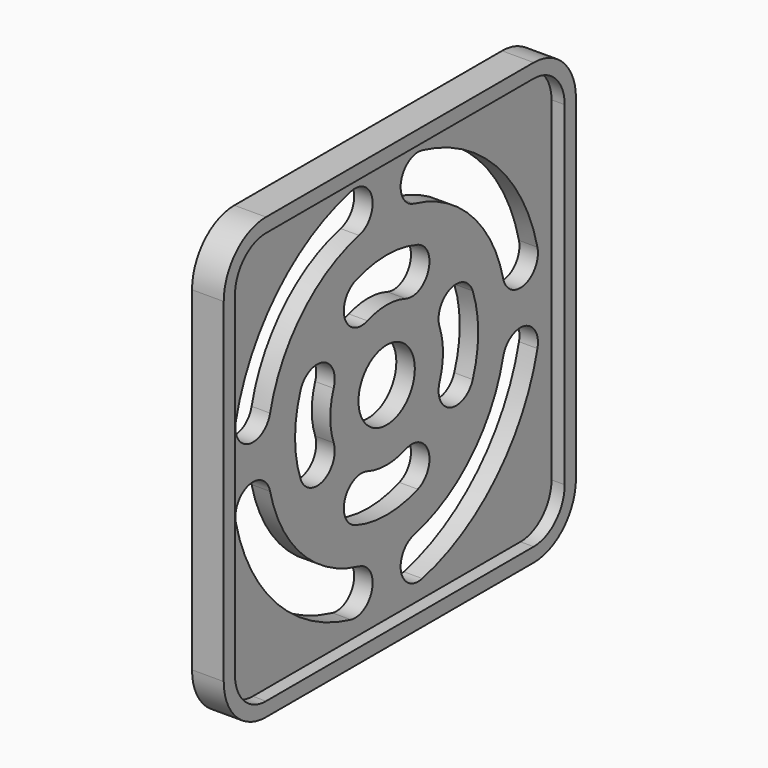
from build123d import *

# Parameters (mm, degrees)
SKETCH028_R           = 2
PAD011_DEPTH          = 1.05
POCKET023_DEPTH       = 71.792855
POLARPATTERN_COUNT    = 4
POCKET024_DEPTH       = 71.792855
POLARPATTERN001_COUNT = 4
PAD012_DEPTH          = 0.75


with BuildPart() as part:
    # Sketch028 → Pad011 (new body)
    with BuildSketch(Plane.YZ):
        with BuildLine():
            Line((-12.5, 9.5), (-12.5, -9.5))
            ThreePointArc((-12.5, -9.5), (-11.62132, -11.62132), (-9.5, -12.5))
            Line((-9.5, -12.5), (9.5, -12.5))
            ThreePointArc((9.5, -12.5), (11.62132, -11.62132), (12.5, -9.5))
            Line((12.5, -9.5), (12.5, 9.5))
            ThreePointArc((12.5, 9.5), (11.62132, 11.62132), (9.5, 12.5))
            Line((9.5, 12.5), (-9.5, 12.5))
            ThreePointArc((-9.5, 12.5), (-11.62132, 11.62132), (-12.5, 9.5))
        make_face()
        Circle(SKETCH028_R, mode=Mode.SUBTRACT)
    extrude(amount=PAD011_DEPTH)

    # Sketch029 (on Face11 of Pad011) → Pocket023 (cut, through all)
    with BuildSketch(Plane.YZ.offset(1.05)):
        with BuildLine():
            ThreePointArc((1.362563, 3.760774), (0, 4), (-1.362563, 3.760774))
            ThreePointArc((-2.214165, 6.111258), (-2.963606, 4.510215), (-1.362563, 3.760774))
            ThreePointArc((2.214165, 6.111258), (0, 6.5), (-2.214165, 6.111258))
            ThreePointArc((1.362563, 3.760774), (2.963606, 4.510215), (2.214165, 6.111258))
        make_face()
    pocket023 = extrude(amount=-POCKET023_DEPTH, mode=Mode.SUBTRACT)

    # PolarPattern: Pocket023 ×4 about axis
    polarpattern_axis = Axis((1.05, 0, 0), (1, 0, 0))
    for i in range(1, POLARPATTERN_COUNT):
        add(pocket023.rotate(polarpattern_axis, i * 360 / POLARPATTERN_COUNT), mode=Mode.SUBTRACT)

    # Sketch030 (on Face5 of PolarPattern) → Pocket024 (cut, through all)
    with BuildSketch(Plane.YZ.offset(1.05)):
        with BuildLine():
            ThreePointArc((-1.955695, 8.271956), (-6.010408, 6.010408), (-8.271956, 1.955695))
            ThreePointArc((-10.704884, 2.5309), (-9.776022, 1.026833), (-8.271956, 1.955695))
            ThreePointArc((-2.5309, 10.704884), (-7.778175, 7.778175), (-10.704884, 2.5309))
            ThreePointArc((-1.955695, 8.271956), (-1.026833, 9.776022), (-2.5309, 10.704884))
        make_face()
    pocket024 = extrude(amount=-POCKET024_DEPTH, mode=Mode.SUBTRACT)

    # PolarPattern001: Pocket024 ×4 about axis
    polarpattern001_axis = Axis((1.05, 0, 0), (1, 0, 0))
    for i in range(1, POLARPATTERN001_COUNT):
        add(pocket024.rotate(polarpattern001_axis, i * 360 / POLARPATTERN001_COUNT), mode=Mode.SUBTRACT)

    # Sketch031 (on Face5 of PolarPattern001) → Pad012 (join)
    with BuildSketch(Plane.YZ.offset(1.05)):
        with BuildLine():
            Line((-12.5, 9.5), (-12.5, -9.5))
            ThreePointArc((-12.5, -9.5), (-11.62132, -11.62132), (-9.5, -12.5))
            Line((-9.5, -12.5), (9.5, -12.5))
            ThreePointArc((9.5, -12.5), (11.62132, -11.62132), (12.5, -9.5))
            Line((12.5, -9.5), (12.5, 9.5))
            ThreePointArc((12.5, 9.5), (11.62132, 11.62132), (9.5, 12.5))
            Line((9.5, 12.5), (-9.5, 12.5))
            ThreePointArc((-9.5, 12.5), (-11.62132, 11.62132), (-12.5, 9.5))
        make_face()
        with BuildLine():
            Line((-11.7, 9.5), (-11.7, -9.5))
            ThreePointArc((-11.7, -9.5), (-11.055635, -11.055635), (-9.5, -11.7))
            Line((-9.5, -11.7), (9.5, -11.7))
            ThreePointArc((9.5, -11.7), (11.055635, -11.055635), (11.7, -9.5))
            Line((11.7, -9.5), (11.7, 9.5))
            ThreePointArc((11.7, 9.5), (11.055635, 11.055635), (9.5, 11.7))
            Line((9.5, 11.7), (-9.5, 11.7))
            ThreePointArc((-9.5, 11.7), (-11.055635, 11.055635), (-11.7, 9.5))
        make_face(mode=Mode.SUBTRACT)
    extrude(amount=PAD012_DEPTH)


with BuildPart() as part_1:
    # Body009 placement: moved
    add(part.part.moved(Location((4.85, 35.05, 22.7))))


solid = part_1.part
